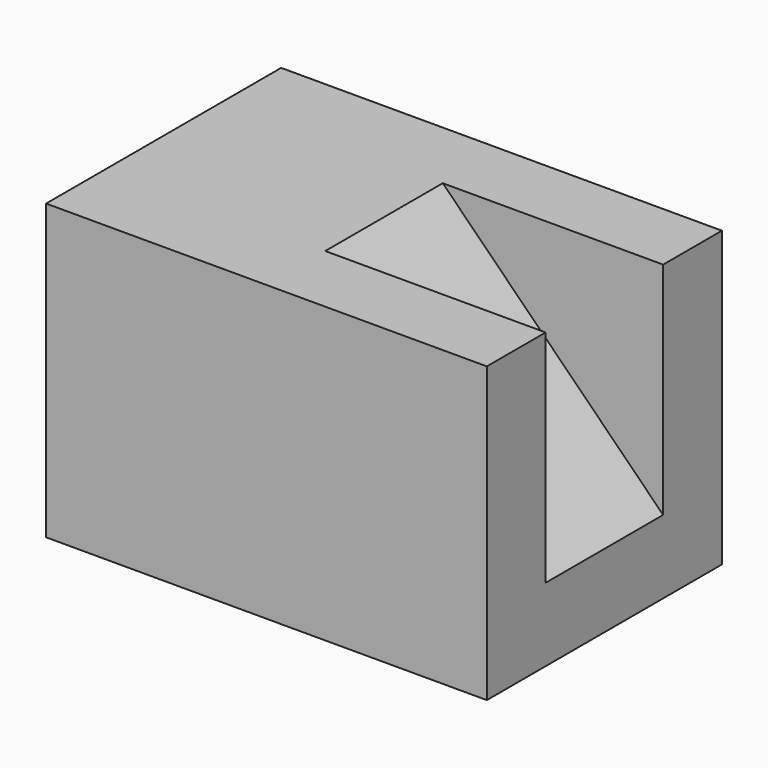
from build123d import *

# Parameters (mm, degrees)
F2_DEPTH = 25.4
F4_DEPTH = 25.4


with BuildPart() as f2:
    # F0 (on Front) → F2 (new body)
    with BuildSketch(Plane.XZ):
        Polygon((0, 25.4), (0, 0), (38.1, 0), (38.1, 6.35), (19.05, 25.4), align=None)
    extrude(amount=-F2_DEPTH)

    # F3 (on Top) → F4 (join)
    with BuildSketch(Plane.XY):
        Polygon((0, 25.4), (0, 0), (38.1, 0), (38.1, 6.35), (19.05, 6.35), (19.05, 19.05), (38.1, 19.05), (38.1, 25.4), align=None)
    extrude(amount=F4_DEPTH)


solid = f2.part
